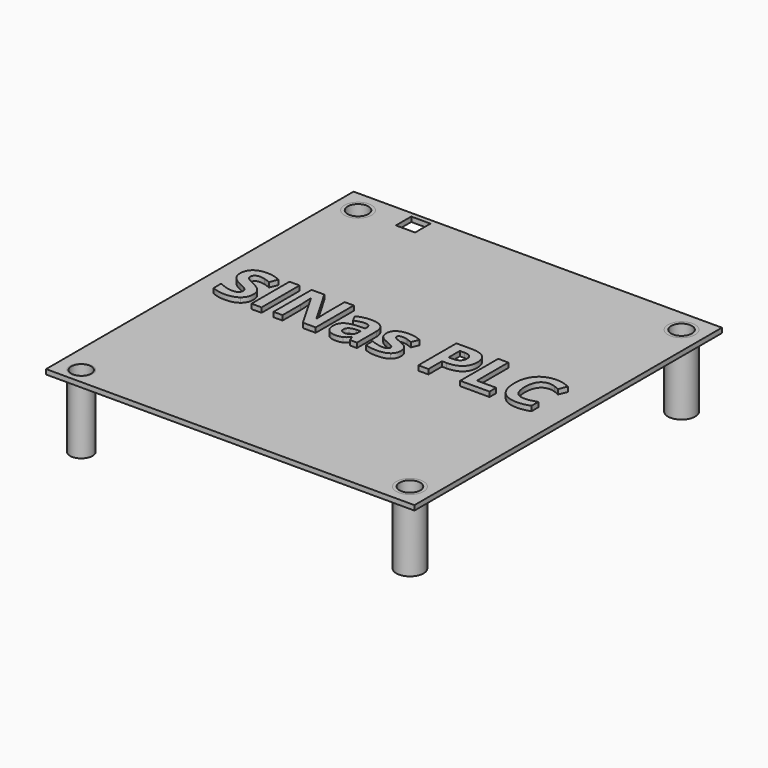
from build123d import *

# Parameters (mm, degrees)
F0_W      = 115
F0_H      = 120
F0_R      = 3.5
F0_R_2    = 4.25
F0_W_2    = 3.148877101
F0_H_2    = 14.8474917178
F0_W_3    = 6
F0_H_3    = 6
F1_DEPTH  = 1.5
F2_DEPTH  = 22.5
F3_R      = 3.25
F4_DEPTH  = 20.5
F5_R      = 3.25
F6_DEPTH  = 20.5
F7_R      = 3.1
F8_DEPTH  = 20.5
F9_R      = 3.25
F10_DEPTH = 20.5
F11_R     = 1.6
F12_DEPTH = 2.5
F13_R     = 1.6
F14_DEPTH = 2.5
F15_R     = 1.6
F16_DEPTH = 2.5
F17_R     = 1.6
F18_DEPTH = 2.5
F19_DEPTH = 1.5
F20_DEPTH = 1.5


with BuildPart() as f1:
    # F0 (on Top) → F1 (new body)
    with BuildSketch(Plane.XY):
        with Locations((5, 5)):
            Rectangle(F0_W, F0_H)
        with Locations((-45.5, -50)):
            Circle(F0_R, mode=Mode.SUBTRACT)
        with Locations((55.5, -48)):
            Circle(F0_R_2, mode=Mode.SUBTRACT)
        with BuildLine():
            add(Edge.make_bspline(
                [(-36.6390427626, 7.5755962992), (-35.8672591594, 6.576339634), (-35.8672591594, 5.1237616524)],
                knots=[0, 0, 0, 1, 1, 1], degree=2))
            add(Edge.make_bspline(
                [(-35.8672591594, 5.1237616524), (-35.8672591594, 3.1122498614), (-37.3149627183, 1.9537620528)],
                knots=[0, 0, 0, 1, 1, 1], degree=2))
            add(Edge.make_bspline(
                [(-37.3149627183, 1.9537620528), (-38.7626662771, 0.7952742442), (-41.3396111079, 0.7952742442)],
                knots=[0, 0, 0, 1, 1, 1], degree=2))
            add(Edge.make_bspline(
                [(-41.3396111079, 0.7952742442), (-43.7183294133, 0.7952742442), (-45.5446131396, 1.6921680315)],
                knots=[0, 0, 0, 1, 1, 1], degree=2))
            Line((-45.5446131396, 1.6921680315), (-45.5446131396, 4.6168216857))
            add(Edge.make_bspline(
                [(-45.5446131396, 4.6168216857), (-44.0432909305, 3.9441513452), (-43.0017892681, 3.6711836708)],
                knots=[0, 0, 0, 1, 1, 1], degree=2))
            add(Edge.make_bspline(
                [(-43.0017892681, 3.6711836708), (-41.9602876057, 3.3982159964), (-41.0958899701, 3.3982159964)],
                knots=[0, 0, 0, 1, 1, 1], degree=2))
            add(Edge.make_bspline(
                [(-41.0958899701, 3.3982159964), (-40.0625123456, 3.3982159964), (-39.5084529589, 3.7930442398)],
                knots=[0, 0, 0, 1, 1, 1], degree=2))
            add(Edge.make_bspline(
                [(-39.5084529589, 3.7930442398), (-38.9543935722, 4.1878724831), (-38.9543935722, 4.9710297394)],
                knots=[0, 0, 0, 1, 1, 1], degree=2))
            add(Edge.make_bspline(
                [(-38.9543935722, 4.9710297394), (-38.9543935722, 5.4064781723), (-39.19811471, 5.7476877653)],
                knots=[0, 0, 0, 1, 1, 1], degree=2))
            add(Edge.make_bspline(
                [(-39.19811471, 5.7476877653), (-39.4418358479, 6.0888973583), (-39.9146548553, 6.4024852223)],
                knots=[0, 0, 0, 1, 1, 1], degree=2))
            add(Edge.make_bspline(
                [(-39.9146548553, 6.4024852223), (-40.3874738627, 6.7160730864), (-41.8400518443, 7.4082411178)],
                knots=[0, 0, 0, 1, 1, 1], degree=2))
            add(Edge.make_bspline(
                [(-41.8400518443, 7.4082411178), (-43.1983909859, 8.0484153066), (-43.8791853643, 8.6365956526)],
                knots=[0, 0, 0, 1, 1, 1], degree=2))
            add(Edge.make_bspline(
                [(-43.8791853643, 8.6365956526), (-44.5599797427, 9.2247759986), (-44.9661816391, 10.0079332549)],
                knots=[0, 0, 0, 1, 1, 1], degree=2))
            add(Edge.make_bspline(
                [(-44.9661816391, 10.0079332549), (-45.3723835356, 10.7910905112), (-45.3723835356, 11.8342169812)],
                knots=[0, 0, 0, 1, 1, 1], degree=2))
            add(Edge.make_bspline(
                [(-45.3723835356, 11.8342169812), (-45.3723835356, 13.8067333902), (-44.0367917001, 14.932725047)],
                knots=[0, 0, 0, 1, 1, 1], degree=2))
            add(Edge.make_bspline(
                [(-44.0367917001, 14.932725047), (-42.7011998647, 16.0587167039), (-40.3452288655, 16.0587167039)],
                knots=[0, 0, 0, 1, 1, 1], degree=2))
            add(Edge.make_bspline(
                [(-40.3452288655, 16.0587167039), (-39.1883658645, 16.0587167039), (-38.1371153566, 15.7857490295)],
                knots=[0, 0, 0, 1, 1, 1], degree=2))
            add(Edge.make_bspline(
                [(-38.1371153566, 15.7857490295), (-37.0858648487, 15.5127813551), (-35.9387506932, 15.0155902339)],
                knots=[0, 0, 0, 1, 1, 1], degree=2))
            Line((-35.9387506932, 15.0155902339), (-36.9526306267, 12.5653803947))
            add(Edge.make_bspline(
                [(-36.9526306267, 12.5653803947), (-38.1419897794, 13.0528226704), (-38.9186478053, 13.2461747731)],
                knots=[0, 0, 0, 1, 1, 1], degree=2))
            add(Edge.make_bspline(
                [(-38.9186478053, 13.2461747731), (-39.6953058313, 13.4395268758), (-40.4459669358, 13.4395268758)],
                knots=[0, 0, 0, 1, 1, 1], degree=2))
            add(Edge.make_bspline(
                [(-40.4459669358, 13.4395268758), (-41.3396111079, 13.4395268758), (-41.8173045381, 13.0235761339)],
                knots=[0, 0, 0, 1, 1, 1], degree=2))
            add(Edge.make_bspline(
                [(-41.8173045381, 13.0235761339), (-42.2949979683, 12.607625392), (-42.2949979683, 11.9382046667)],
                knots=[0, 0, 0, 1, 1, 1], degree=2))
            add(Edge.make_bspline(
                [(-42.2949979683, 11.9382046667), (-42.2949979683, 11.5222539247), (-42.1016458656, 11.2119156759)],
                knots=[0, 0, 0, 1, 1, 1], degree=2))
            add(Edge.make_bspline(
                [(-42.1016458656, 11.2119156759), (-41.9082937629, 10.901577427), (-41.4874685982, 10.6123616768)],
                knots=[0, 0, 0, 1, 1, 1], degree=2))
            add(Edge.make_bspline(
                [(-41.4874685982, 10.6123616768), (-41.0666434335, 10.3231459265), (-39.4938296906, 9.5724848219)],
                knots=[0, 0, 0, 1, 1, 1], degree=2))
            add(Edge.make_bspline(
                [(-39.4938296906, 9.5724848219), (-37.4108263658, 8.5748529644), (-36.6390427626, 7.5755962992)],
                knots=[0, 0, 0, 1, 1, 1], degree=2))
        make_face(mode=Mode.SUBTRACT)
        with Locations((-31.6021392471, 8.4237458589)):
            Rectangle(F0_W_2, F0_H_2, mode=Mode.SUBTRACT)
        with BuildLine():
            Line((-13.1199529602, 15.8474917178), (-13.1199529602, 1))
            Line((-13.1199529602, 1), (-17.1202292361, 1))
            Line((-17.1202292361, 1), (-23.5804641967, 12.2306700321))
            Line((-23.5804641967, 12.2306700321), (-23.6714534215, 12.2306700321))
            add(Edge.make_bspline(
                [(-23.6714534215, 12.2306700321), (-23.4764765112, 9.2572721503), (-23.4764765112, 7.9866726183)],
                knots=[0, 0, 0, 1, 1, 1], degree=2))
            Line((-23.4764765112, 7.9866726183), (-23.4764765112, 1))
            Line((-23.4764765112, 1), (-26.2906432495, 1))
            Line((-26.2906432495, 1), (-26.2906432495, 15.8474917178))
            Line((-26.2906432495, 15.8474917178), (-22.3196135102, 15.8474917178))
            Line((-22.3196135102, 15.8474917178), (-15.8723770103, 4.7273086015))
            Line((-15.8723770103, 4.7273086015), (-15.8008854765, 4.7273086015))
            add(Edge.make_bspline(
                [(-15.8008854765, 4.7273086015), (-15.9536173896, 7.6227157192), (-15.9536173896, 8.8185741022)],
                knots=[0, 0, 0, 1, 1, 1], degree=2))
            Line((-15.9536173896, 8.8185741022), (-15.9536173896, 15.8474917178))
            Line((-15.9536173896, 15.8474917178), (-13.1199529602, 15.8474917178))
        make_face(mode=Mode.SUBTRACT)
        with BuildLine():
            Line((-0.2547264969, 1), (-2.4157205858, 1))
            Line((-2.4157205858, 1), (-3.0168993925, 2.5435672064))
            Line((-3.0168993925, 2.5435672064), (-3.0981397718, 2.5435672064))
            add(Edge.make_bspline(
                [(-3.0981397718, 2.5435672064), (-3.8780474129, 1.5589338095), (-4.7066992816, 1.1771040268)],
                knots=[0, 0, 0, 1, 1, 1], degree=2))
            add(Edge.make_bspline(
                [(-4.7066992816, 1.1771040268), (-5.5353511503, 0.7952742442), (-6.8644437554, 0.7952742442)],
                knots=[0, 0, 0, 1, 1, 1], degree=2))
            add(Edge.make_bspline(
                [(-6.8644437554, 0.7952742442), (-8.4990001866, 0.7952742442), (-9.4381389711, 1.7311634135)],
                knots=[0, 0, 0, 1, 1, 1], degree=2))
            add(Edge.make_bspline(
                [(-9.4381389711, 1.7311634135), (-10.3772777556, 2.6670525829), (-10.3772777556, 4.3925982389)],
                knots=[0, 0, 0, 1, 1, 1], degree=2))
            add(Edge.make_bspline(
                [(-10.3772777556, 4.3925982389), (-10.3772777556, 6.1993842741), (-9.1131774539, 7.0572826793)],
                knots=[0, 0, 0, 1, 1, 1], degree=2))
            add(Edge.make_bspline(
                [(-9.1131774539, 7.0572826793), (-7.8490771523, 7.9151810846), (-5.301378858, 8.0061703094)],
                knots=[0, 0, 0, 1, 1, 1], degree=2))
            Line((-5.301378858, 8.0061703094), (-3.328862449, 8.0679129976))
            Line((-3.328862449, 8.0679129976), (-3.328862449, 8.5651041188))
            add(Edge.make_bspline(
                [(-3.328862449, 8.5651041188), (-3.328862449, 10.2906497748), (-5.0966531022, 10.2906497748)],
                knots=[0, 0, 0, 1, 1, 1], degree=2))
            add(Edge.make_bspline(
                [(-5.0966531022, 10.2906497748), (-6.458241859, 10.2906497748), (-8.2975240459, 9.4684971365)],
                knots=[0, 0, 0, 1, 1, 1], degree=2))
            Line((-8.2975240459, 9.4684971365), (-9.3211528249, 11.5612493068))
            add(Edge.make_bspline(
                [(-9.3211528249, 11.5612493068), (-7.3616348766, 12.5881277009), (-4.9764173408, 12.5881277009)],
                knots=[0, 0, 0, 1, 1, 1], degree=2))
            add(Edge.make_bspline(
                [(-4.9764173408, 12.5881277009), (-2.6919378754, 12.5881277009), (-1.4733321862, 11.5921206509)],
                knots=[0, 0, 0, 1, 1, 1], degree=2))
            add(Edge.make_bspline(
                [(-1.4733321862, 11.5921206509), (-0.2547264969, 10.5961136009), (-0.2547264969, 8.5651041188)],
                knots=[0, 0, 0, 1, 1, 1], degree=2))
            Line((-0.2547264969, 8.5651041188), (-0.2547264969, 1))
        make_face(mode=Mode.SUBTRACT)
        with Locations((-45.5, 58)):
            Circle(F0_R_2, mode=Mode.SUBTRACT)
        with Locations((-30.291278407, 60.5)):
            Rectangle(F0_W_3, F0_H_3, mode=Mode.SUBTRACT)
        with BuildLine():
            add(Edge.make_bspline(
                [(10.5632424084, 5.8240537218), (10.858957389, 5.2147508772), (10.858957389, 4.3731005478)],
                knots=[0, 0, 0, 1, 1, 1], degree=2))
            add(Edge.make_bspline(
                [(10.858957389, 4.3731005478), (10.858957389, 2.6248075857), (9.6452261225, 1.7100409149)],
                knots=[0, 0, 0, 1, 1, 1], degree=2))
            add(Edge.make_bspline(
                [(9.6452261225, 1.7100409149), (8.431494856, 0.7952742442), (6.0137811686, 0.7952742442)],
                knots=[0, 0, 0, 1, 1, 1], degree=2))
            add(Edge.make_bspline(
                [(6.0137811686, 0.7952742442), (4.7756777883, 0.7952742442), (3.9015313072, 0.9642542331)],
                knots=[0, 0, 0, 1, 1, 1], degree=2))
            add(Edge.make_bspline(
                [(3.9015313072, 0.9642542331), (3.0273848261, 1.133234222), (2.266974876, 1.4581957392)],
                knots=[0, 0, 0, 1, 1, 1], degree=2))
            Line((2.266974876, 1.4581957392), (2.266974876, 4.015642879))
            add(Edge.make_bspline(
                [(2.266974876, 4.015642879), (3.1281228964, 3.6094409826), (4.2102447485, 3.3348485006)],
                knots=[0, 0, 0, 1, 1, 1], degree=2))
            add(Edge.make_bspline(
                [(4.2102447485, 3.3348485006), (5.2923666005, 3.0602560186), (6.1145192389, 3.0602560186)],
                knots=[0, 0, 0, 1, 1, 1], degree=2))
            add(Edge.make_bspline(
                [(6.1145192389, 3.0602560186), (7.8010695128, 3.0602560186), (7.8010695128, 4.03514057)],
                knots=[0, 0, 0, 1, 1, 1], degree=2))
            add(Edge.make_bspline(
                [(7.8010695128, 4.03514057), (7.8010695128, 4.4023470844), (7.576846066, 4.631444954)],
                knots=[0, 0, 0, 1, 1, 1], degree=2))
            add(Edge.make_bspline(
                [(7.576846066, 4.631444954), (7.3526226192, 4.8605428235), (6.8050624628, 5.1497585738)],
                knots=[0, 0, 0, 1, 1, 1], degree=2))
            add(Edge.make_bspline(
                [(6.8050624628, 5.1497585738), (6.2575023064, 5.438974324), (5.3443604433, 5.8224289142)],
                knots=[0, 0, 0, 1, 1, 1], degree=2))
            add(Edge.make_bspline(
                [(5.3443604433, 5.8224289142), (4.0347655292, 6.3716138782), (3.4189634543, 6.8395584629)],
                knots=[0, 0, 0, 1, 1, 1], degree=2))
            add(Edge.make_bspline(
                [(3.4189634543, 6.8395584629), (2.8031613793, 7.3075030475), (2.5253192822, 7.9119314694)],
                knots=[0, 0, 0, 1, 1, 1], degree=2))
            add(Edge.make_bspline(
                [(2.5253192822, 7.9119314694), (2.247477185, 8.5163598913), (2.247477185, 9.3970056027)],
                knots=[0, 0, 0, 1, 1, 1], degree=2))
            add(Edge.make_bspline(
                [(2.247477185, 9.3970056027), (2.247477185, 10.9113262725), (3.4189634543, 11.7383533336)],
                knots=[0, 0, 0, 1, 1, 1], degree=2))
            add(Edge.make_bspline(
                [(3.4189634543, 11.7383533336), (4.5904497235, 12.5653803947), (6.7449445821, 12.5653803947)],
                knots=[0, 0, 0, 1, 1, 1], degree=2))
            add(Edge.make_bspline(
                [(6.7449445821, 12.5653803947), (8.7954517552, 12.5653803947), (10.7354720125, 11.6717362226)],
                knots=[0, 0, 0, 1, 1, 1], degree=2))
            Line((10.7354720125, 11.6717362226), (9.8028324583, 9.4392505999))
            add(Edge.make_bspline(
                [(9.8028324583, 9.4392505999), (8.9481836683, 9.8032074991), (8.2072714092, 10.0371797914)],
                knots=[0, 0, 0, 1, 1, 1], degree=2))
            add(Edge.make_bspline(
                [(8.2072714092, 10.0371797914), (7.4663591502, 10.2711520838), (6.6929507394, 10.2711520838)],
                knots=[0, 0, 0, 1, 1, 1], degree=2))
            add(Edge.make_bspline(
                [(6.6929507394, 10.2711520838), (5.3216131371, 10.2711520838), (5.3216131371, 9.5302398247)],
                knots=[0, 0, 0, 1, 1, 1], degree=2))
            add(Edge.make_bspline(
                [(5.3216131371, 9.5302398247), (5.3216131371, 9.1142890828), (5.7635608004, 8.8088252567)],
                knots=[0, 0, 0, 1, 1, 1], degree=2))
            add(Edge.make_bspline(
                [(5.7635608004, 8.8088252567), (6.2055084637, 8.5033614306), (7.7003314425, 7.9054322391)],
                knots=[0, 0, 0, 1, 1, 1], degree=2))
            add(Edge.make_bspline(
                [(7.7003314425, 7.9054322391), (9.0294240476, 7.3659961206), (9.6484757377, 6.8996763435)],
                knots=[0, 0, 0, 1, 1, 1], degree=2))
            add(Edge.make_bspline(
                [(9.6484757377, 6.8996763435), (10.2675274278, 6.4333565665), (10.5632424084, 5.8240537218)],
                knots=[0, 0, 0, 1, 1, 1], degree=2))
        make_face(mode=Mode.SUBTRACT)
        with BuildLine():
            add(Edge.make_bspline(
                [(27.7715795482, 14.6841294864), (29.1770381098, 13.5207672551), (29.1770381098, 11.2167900986)],
                knots=[0, 0, 0, 1, 1, 1], degree=2))
            add(Edge.make_bspline(
                [(29.1770381098, 11.2167900986), (29.1770381098, 8.8185741022), (27.6789655158, 7.5495993778)],
                knots=[0, 0, 0, 1, 1, 1], degree=2))
            add(Edge.make_bspline(
                [(27.6789655158, 7.5495993778), (26.1808929218, 6.2806246534), (23.4187200262, 6.2806246534)],
                knots=[0, 0, 0, 1, 1, 1], degree=2))
            Line((23.4187200262, 6.2806246534), (22.0701297301, 6.2806246534))
            Line((22.0701297301, 6.2806246534), (22.0701297301, 1))
            Line((22.0701297301, 1), (18.9212526291, 1))
            Line((18.9212526291, 1), (18.9212526291, 15.8474917178))
            Line((18.9212526291, 15.8474917178), (23.662441164, 15.8474917178))
            add(Edge.make_bspline(
                [(23.662441164, 15.8474917178), (26.3661209866, 15.8474917178), (27.7715795482, 14.6841294864)],
                knots=[0, 0, 0, 1, 1, 1], degree=2))
        make_face(mode=Mode.SUBTRACT)
        Polygon((41.1518700161, 1), (31.9814560026, 1), (31.9814560026, 15.8474917178), (35.1303331036, 15.8474917178), (35.1303331036, 3.5996921371), (41.1518700161, 3.5996921371), align=None, mode=Mode.SUBTRACT)
        with BuildLine():
            add(Edge.make_bspline(
                [(51.6936216319, 13.1454367028), (50.8519713025, 13.4395268758), (50.0395675097, 13.4395268758)],
                knots=[0, 0, 0, 1, 1, 1], degree=2))
            add(Edge.make_bspline(
                [(50.0395675097, 13.4395268758), (48.2620280109, 13.4395268758), (47.2871434595, 12.1039350404)],
                knots=[0, 0, 0, 1, 1, 1], degree=2))
            add(Edge.make_bspline(
                [(47.2871434595, 12.1039350404), (46.3122589081, 10.768343205), (46.3122589081, 8.3831256692)],
                knots=[0, 0, 0, 1, 1, 1], degree=2))
            add(Edge.make_bspline(
                [(46.3122589081, 8.3831256692), (46.3122589081, 3.4177136875), (50.0395675097, 3.4177136875)],
                knots=[0, 0, 0, 1, 1, 1], degree=2))
            add(Edge.make_bspline(
                [(50.0395675097, 3.4177136875), (51.6026324071, 3.4177136875), (53.8253691842, 4.1976213286)],
                knots=[0, 0, 0, 1, 1, 1], degree=2))
            Line((53.8253691842, 4.1976213286), (53.8253691842, 1.5589338095))
            add(Edge.make_bspline(
                [(53.8253691842, 1.5589338095), (51.999085458, 0.7952742442), (49.7438525291, 0.7952742442)],
                knots=[0, 0, 0, 1, 1, 1], degree=2))
            add(Edge.make_bspline(
                [(49.7438525291, 0.7952742442), (46.5039862033, 0.7952742442), (44.7881893928, 2.7612914229)],
                knots=[0, 0, 0, 1, 1, 1], degree=2))
            add(Edge.make_bspline(
                [(44.7881893928, 2.7612914229), (43.0723925823, 4.7273086015), (43.0723925823, 8.4026233603)],
                knots=[0, 0, 0, 1, 1, 1], degree=2))
            add(Edge.make_bspline(
                [(43.0723925823, 8.4026233603), (43.0723925823, 10.7195989774), (43.9156677193, 12.4613927093)],
                knots=[0, 0, 0, 1, 1, 1], degree=2))
            add(Edge.make_bspline(
                [(43.9156677193, 12.4613927093), (44.7589428563, 14.2031864411), (46.3382558295, 15.1309515725)],
                knots=[0, 0, 0, 1, 1, 1], degree=2))
            add(Edge.make_bspline(
                [(46.3382558295, 15.1309515725), (47.9175688028, 16.0587167039), (50.0395675097, 16.0587167039)],
                knots=[0, 0, 0, 1, 1, 1], degree=2))
            add(Edge.make_bspline(
                [(50.0395675097, 16.0587167039), (52.2005615986, 16.0587167039), (54.3843029937, 15.0155902339)],
                knots=[0, 0, 0, 1, 1, 1], degree=2))
            Line((54.3843029937, 15.0155902339), (53.3704230603, 12.4548934789))
            add(Edge.make_bspline(
                [(53.3704230603, 12.4548934789), (52.5352719612, 12.8513465298), (51.6936216319, 13.1454367028)],
                knots=[0, 0, 0, 1, 1, 1], degree=2))
        make_face(mode=Mode.SUBTRACT)
        with Locations((55.5, 58)):
            Circle(F0_R_2, mode=Mode.SUBTRACT)
    extrude(amount=-F1_DEPTH)


with BuildPart() as f2:
    # F0 (on Top) → F2 (new body)
    with BuildSketch(Plane.XY):
        with Locations((-45.5, 58)):
            Circle(F0_R_2)
    extrude(amount=-F2_DEPTH)

    # F5 (on face) → F6 (cut)
    with BuildSketch(Plane.XY):
        with Locations((-45.5, 58)):
            Circle(F5_R)
    extrude(amount=-F6_DEPTH, mode=Mode.SUBTRACT)

    # F13 (on face) → F14 (cut)
    with BuildSketch(Plane(origin=(0, 0, -22.5), x_dir=(1, 0, 0), z_dir=(0, 0, -1))):
        with Locations((-45.5, -58)):
            Circle(F13_R)
    extrude(amount=-F14_DEPTH, mode=Mode.SUBTRACT)


with BuildPart() as f2b:
    # F0 (on Top) → F2, piece 2 (new body)
    with BuildSketch(Plane.XY):
        with Locations((55.5, 58)):
            Circle(F0_R_2)
    extrude(amount=-F2_DEPTH)

    # F3 (on face) → F4 (cut)
    with BuildSketch(Plane.XY):
        with Locations((55.5, 58)):
            Circle(F3_R)
    extrude(amount=-F4_DEPTH, mode=Mode.SUBTRACT)

    # F15 (on face) → F16 (cut)
    with BuildSketch(Plane(origin=(0, 0, -22.5), x_dir=(1, 0, 0), z_dir=(0, 0, -1))):
        with Locations((55.5, -58)):
            Circle(F15_R)
    extrude(amount=-F16_DEPTH, mode=Mode.SUBTRACT)


with BuildPart() as f2c:
    # F0 (on Top) → F2, piece 3 (new body)
    with BuildSketch(Plane.XY):
        with Locations((-45.5, -50)):
            Circle(F0_R)
    extrude(amount=-F2_DEPTH)

    # F7 (on face) → F8 (cut)
    with BuildSketch(Plane.XY):
        with Locations((-45.5, -50)):
            Circle(F7_R)
    extrude(amount=-F8_DEPTH, mode=Mode.SUBTRACT)

    # F11 (on face) → F12 (cut)
    with BuildSketch(Plane(origin=(0, 0, -22.5), x_dir=(1, 0, 0), z_dir=(0, 0, -1))):
        with Locations((-45.5, 50)):
            Circle(F11_R)
    extrude(amount=-F12_DEPTH, mode=Mode.SUBTRACT)


with BuildPart() as f2d:
    # F0 (on Top) → F2, piece 4 (new body)
    with BuildSketch(Plane.XY):
        with Locations((55.5, -48)):
            Circle(F0_R_2)
    extrude(amount=-F2_DEPTH)

    # F9 (on face) → F10 (cut)
    with BuildSketch(Plane.XY):
        with Locations((55.5, -48)):
            Circle(F9_R)
    extrude(amount=-F10_DEPTH, mode=Mode.SUBTRACT)

    # F17 (on face) → F18 (cut)
    with BuildSketch(Plane(origin=(0, 0, -22.5), x_dir=(1, 0, 0), z_dir=(0, 0, -1))):
        with Locations((55.5, 48)):
            Circle(F17_R)
    extrude(amount=-F18_DEPTH, mode=Mode.SUBTRACT)


with BuildPart() as f19:
    # F0 (on Top) → F19 (new body)
    with BuildSketch(Plane.XY):
        with BuildLine():
            add(Edge.make_bspline(
                [(-35.8672591594, 5.1237616524), (-35.8672591594, 3.1122498614), (-37.3149627183, 1.9537620528)],
                knots=[0, 0, 0, 1, 1, 1], degree=2))
            add(Edge.make_bspline(
                [(-36.6390427626, 7.5755962992), (-35.8672591594, 6.576339634), (-35.8672591594, 5.1237616524)],
                knots=[0, 0, 0, 1, 1, 1], degree=2))
            add(Edge.make_bspline(
                [(-39.4938296906, 9.5724848219), (-37.4108263658, 8.5748529644), (-36.6390427626, 7.5755962992)],
                knots=[0, 0, 0, 1, 1, 1], degree=2))
            add(Edge.make_bspline(
                [(-41.4874685982, 10.6123616768), (-41.0666434335, 10.3231459265), (-39.4938296906, 9.5724848219)],
                knots=[0, 0, 0, 1, 1, 1], degree=2))
            add(Edge.make_bspline(
                [(-42.1016458656, 11.2119156759), (-41.9082937629, 10.901577427), (-41.4874685982, 10.6123616768)],
                knots=[0, 0, 0, 1, 1, 1], degree=2))
            add(Edge.make_bspline(
                [(-42.2949979683, 11.9382046667), (-42.2949979683, 11.5222539247), (-42.1016458656, 11.2119156759)],
                knots=[0, 0, 0, 1, 1, 1], degree=2))
            add(Edge.make_bspline(
                [(-41.8173045381, 13.0235761339), (-42.2949979683, 12.607625392), (-42.2949979683, 11.9382046667)],
                knots=[0, 0, 0, 1, 1, 1], degree=2))
            add(Edge.make_bspline(
                [(-40.4459669358, 13.4395268758), (-41.3396111079, 13.4395268758), (-41.8173045381, 13.0235761339)],
                knots=[0, 0, 0, 1, 1, 1], degree=2))
            add(Edge.make_bspline(
                [(-38.9186478053, 13.2461747731), (-39.6953058313, 13.4395268758), (-40.4459669358, 13.4395268758)],
                knots=[0, 0, 0, 1, 1, 1], degree=2))
            add(Edge.make_bspline(
                [(-36.9526306267, 12.5653803947), (-38.1419897794, 13.0528226704), (-38.9186478053, 13.2461747731)],
                knots=[0, 0, 0, 1, 1, 1], degree=2))
            Line((-36.9526306267, 12.5653803947), (-35.9387506932, 15.0155902339))
            add(Edge.make_bspline(
                [(-38.1371153566, 15.7857490295), (-37.0858648487, 15.5127813551), (-35.9387506932, 15.0155902339)],
                knots=[0, 0, 0, 1, 1, 1], degree=2))
            add(Edge.make_bspline(
                [(-40.3452288655, 16.0587167039), (-39.1883658645, 16.0587167039), (-38.1371153566, 15.7857490295)],
                knots=[0, 0, 0, 1, 1, 1], degree=2))
            add(Edge.make_bspline(
                [(-44.0367917001, 14.932725047), (-42.7011998647, 16.0587167039), (-40.3452288655, 16.0587167039)],
                knots=[0, 0, 0, 1, 1, 1], degree=2))
            add(Edge.make_bspline(
                [(-45.3723835356, 11.8342169812), (-45.3723835356, 13.8067333902), (-44.0367917001, 14.932725047)],
                knots=[0, 0, 0, 1, 1, 1], degree=2))
            add(Edge.make_bspline(
                [(-44.9661816391, 10.0079332549), (-45.3723835356, 10.7910905112), (-45.3723835356, 11.8342169812)],
                knots=[0, 0, 0, 1, 1, 1], degree=2))
            add(Edge.make_bspline(
                [(-43.8791853643, 8.6365956526), (-44.5599797427, 9.2247759986), (-44.9661816391, 10.0079332549)],
                knots=[0, 0, 0, 1, 1, 1], degree=2))
            add(Edge.make_bspline(
                [(-41.8400518443, 7.4082411178), (-43.1983909859, 8.0484153066), (-43.8791853643, 8.6365956526)],
                knots=[0, 0, 0, 1, 1, 1], degree=2))
            add(Edge.make_bspline(
                [(-39.9146548553, 6.4024852223), (-40.3874738627, 6.7160730864), (-41.8400518443, 7.4082411178)],
                knots=[0, 0, 0, 1, 1, 1], degree=2))
            add(Edge.make_bspline(
                [(-39.19811471, 5.7476877653), (-39.4418358479, 6.0888973583), (-39.9146548553, 6.4024852223)],
                knots=[0, 0, 0, 1, 1, 1], degree=2))
            add(Edge.make_bspline(
                [(-38.9543935722, 4.9710297394), (-38.9543935722, 5.4064781723), (-39.19811471, 5.7476877653)],
                knots=[0, 0, 0, 1, 1, 1], degree=2))
            add(Edge.make_bspline(
                [(-39.5084529589, 3.7930442398), (-38.9543935722, 4.1878724831), (-38.9543935722, 4.9710297394)],
                knots=[0, 0, 0, 1, 1, 1], degree=2))
            add(Edge.make_bspline(
                [(-41.0958899701, 3.3982159964), (-40.0625123456, 3.3982159964), (-39.5084529589, 3.7930442398)],
                knots=[0, 0, 0, 1, 1, 1], degree=2))
            add(Edge.make_bspline(
                [(-43.0017892681, 3.6711836708), (-41.9602876057, 3.3982159964), (-41.0958899701, 3.3982159964)],
                knots=[0, 0, 0, 1, 1, 1], degree=2))
            add(Edge.make_bspline(
                [(-45.5446131396, 4.6168216857), (-44.0432909305, 3.9441513452), (-43.0017892681, 3.6711836708)],
                knots=[0, 0, 0, 1, 1, 1], degree=2))
            Line((-45.5446131396, 4.6168216857), (-45.5446131396, 1.6921680315))
            add(Edge.make_bspline(
                [(-41.3396111079, 0.7952742442), (-43.7183294133, 0.7952742442), (-45.5446131396, 1.6921680315)],
                knots=[0, 0, 0, 1, 1, 1], degree=2))
            add(Edge.make_bspline(
                [(-37.3149627183, 1.9537620528), (-38.7626662771, 0.7952742442), (-41.3396111079, 0.7952742442)],
                knots=[0, 0, 0, 1, 1, 1], degree=2))
        make_face()
    extrude(amount=F19_DEPTH)


with BuildPart() as f20:
    # F0 (on Top) → F20 (new body)
    with BuildSketch(Plane.XY):
        with Locations((-31.6021392471, 8.4237458589)):
            Rectangle(F0_W_2, F0_H_2)
        with BuildLine():
            Line((-17.1202292361, 1), (-13.1199529602, 1))
            Line((-13.1199529602, 1), (-13.1199529602, 15.8474917178))
            Line((-13.1199529602, 15.8474917178), (-15.9536173896, 15.8474917178))
            Line((-15.9536173896, 15.8474917178), (-15.9536173896, 8.8185741022))
            add(Edge.make_bspline(
                [(-15.8008854765, 4.7273086015), (-15.9536173896, 7.6227157192), (-15.9536173896, 8.8185741022)],
                knots=[0, 0, 0, 1, 1, 1], degree=2))
            Line((-15.8008854765, 4.7273086015), (-15.8723770103, 4.7273086015))
            Line((-15.8723770103, 4.7273086015), (-22.3196135102, 15.8474917178))
            Line((-22.3196135102, 15.8474917178), (-26.2906432495, 15.8474917178))
            Line((-26.2906432495, 15.8474917178), (-26.2906432495, 1))
            Line((-26.2906432495, 1), (-23.4764765112, 1))
            Line((-23.4764765112, 1), (-23.4764765112, 7.9866726183))
            add(Edge.make_bspline(
                [(-23.6714534215, 12.2306700321), (-23.4764765112, 9.2572721503), (-23.4764765112, 7.9866726183)],
                knots=[0, 0, 0, 1, 1, 1], degree=2))
            Line((-23.6714534215, 12.2306700321), (-23.5804641967, 12.2306700321))
            Line((-23.5804641967, 12.2306700321), (-17.1202292361, 1))
        make_face()
        with BuildLine():
            Line((-3.0168993925, 2.5435672064), (-2.4157205858, 1))
            Line((-2.4157205858, 1), (-0.2547264969, 1))
            Line((-0.2547264969, 1), (-0.2547264969, 8.5651041188))
            add(Edge.make_bspline(
                [(-1.4733321862, 11.5921206509), (-0.2547264969, 10.5961136009), (-0.2547264969, 8.5651041188)],
                knots=[0, 0, 0, 1, 1, 1], degree=2))
            add(Edge.make_bspline(
                [(-4.9764173408, 12.5881277009), (-2.6919378754, 12.5881277009), (-1.4733321862, 11.5921206509)],
                knots=[0, 0, 0, 1, 1, 1], degree=2))
            add(Edge.make_bspline(
                [(-9.3211528249, 11.5612493068), (-7.3616348766, 12.5881277009), (-4.9764173408, 12.5881277009)],
                knots=[0, 0, 0, 1, 1, 1], degree=2))
            Line((-9.3211528249, 11.5612493068), (-8.2975240459, 9.4684971365))
            add(Edge.make_bspline(
                [(-5.0966531022, 10.2906497748), (-6.458241859, 10.2906497748), (-8.2975240459, 9.4684971365)],
                knots=[0, 0, 0, 1, 1, 1], degree=2))
            add(Edge.make_bspline(
                [(-3.328862449, 8.5651041188), (-3.328862449, 10.2906497748), (-5.0966531022, 10.2906497748)],
                knots=[0, 0, 0, 1, 1, 1], degree=2))
            Line((-3.328862449, 8.5651041188), (-3.328862449, 8.0679129976))
            Line((-3.328862449, 8.0679129976), (-5.301378858, 8.0061703094))
            add(Edge.make_bspline(
                [(-9.1131774539, 7.0572826793), (-7.8490771523, 7.9151810846), (-5.301378858, 8.0061703094)],
                knots=[0, 0, 0, 1, 1, 1], degree=2))
            add(Edge.make_bspline(
                [(-10.3772777556, 4.3925982389), (-10.3772777556, 6.1993842741), (-9.1131774539, 7.0572826793)],
                knots=[0, 0, 0, 1, 1, 1], degree=2))
            add(Edge.make_bspline(
                [(-9.4381389711, 1.7311634135), (-10.3772777556, 2.6670525829), (-10.3772777556, 4.3925982389)],
                knots=[0, 0, 0, 1, 1, 1], degree=2))
            add(Edge.make_bspline(
                [(-6.8644437554, 0.7952742442), (-8.4990001866, 0.7952742442), (-9.4381389711, 1.7311634135)],
                knots=[0, 0, 0, 1, 1, 1], degree=2))
            add(Edge.make_bspline(
                [(-4.7066992816, 1.1771040268), (-5.5353511503, 0.7952742442), (-6.8644437554, 0.7952742442)],
                knots=[0, 0, 0, 1, 1, 1], degree=2))
            add(Edge.make_bspline(
                [(-3.0981397718, 2.5435672064), (-3.8780474129, 1.5589338095), (-4.7066992816, 1.1771040268)],
                knots=[0, 0, 0, 1, 1, 1], degree=2))
            Line((-3.0981397718, 2.5435672064), (-3.0168993925, 2.5435672064))
        make_face()
        with BuildLine():
            Line((-4.5279704472, 6.2188819651), (-3.328862449, 6.2611269624))
            Line((-3.328862449, 6.2611269624), (-3.328862449, 5.325237793))
            add(Edge.make_bspline(
                [(-3.9739110605, 3.6809325163), (-3.328862449, 4.3016090141), (-3.328862449, 5.325237793)],
                knots=[0, 0, 0, 1, 1, 1], degree=2))
            add(Edge.make_bspline(
                [(-5.6978319089, 3.0602560186), (-4.618959672, 3.0602560186), (-3.9739110605, 3.6809325163)],
                knots=[0, 0, 0, 1, 1, 1], degree=2))
            add(Edge.make_bspline(
                [(-7.199154118, 4.3731005478), (-7.199154118, 3.0602560186), (-5.6978319089, 3.0602560186)],
                knots=[0, 0, 0, 1, 1, 1], degree=2))
            add(Edge.make_bspline(
                [(-6.5394822382, 5.733064497), (-7.199154118, 5.286242411), (-7.199154118, 4.3731005478)],
                knots=[0, 0, 0, 1, 1, 1], degree=2))
            add(Edge.make_bspline(
                [(-4.5279704472, 6.2188819651), (-5.8798103585, 6.1798865831), (-6.5394822382, 5.733064497)],
                knots=[0, 0, 0, 1, 1, 1], degree=2))
        make_face(mode=Mode.SUBTRACT)
        with BuildLine():
            add(Edge.make_bspline(
                [(10.858957389, 4.3731005478), (10.858957389, 2.6248075857), (9.6452261225, 1.7100409149)],
                knots=[0, 0, 0, 1, 1, 1], degree=2))
            add(Edge.make_bspline(
                [(10.5632424084, 5.8240537218), (10.858957389, 5.2147508772), (10.858957389, 4.3731005478)],
                knots=[0, 0, 0, 1, 1, 1], degree=2))
            add(Edge.make_bspline(
                [(9.6484757377, 6.8996763435), (10.2675274278, 6.4333565665), (10.5632424084, 5.8240537218)],
                knots=[0, 0, 0, 1, 1, 1], degree=2))
            add(Edge.make_bspline(
                [(7.7003314425, 7.9054322391), (9.0294240476, 7.3659961206), (9.6484757377, 6.8996763435)],
                knots=[0, 0, 0, 1, 1, 1], degree=2))
            add(Edge.make_bspline(
                [(5.7635608004, 8.8088252567), (6.2055084637, 8.5033614306), (7.7003314425, 7.9054322391)],
                knots=[0, 0, 0, 1, 1, 1], degree=2))
            add(Edge.make_bspline(
                [(5.3216131371, 9.5302398247), (5.3216131371, 9.1142890828), (5.7635608004, 8.8088252567)],
                knots=[0, 0, 0, 1, 1, 1], degree=2))
            add(Edge.make_bspline(
                [(6.6929507394, 10.2711520838), (5.3216131371, 10.2711520838), (5.3216131371, 9.5302398247)],
                knots=[0, 0, 0, 1, 1, 1], degree=2))
            add(Edge.make_bspline(
                [(8.2072714092, 10.0371797914), (7.4663591502, 10.2711520838), (6.6929507394, 10.2711520838)],
                knots=[0, 0, 0, 1, 1, 1], degree=2))
            add(Edge.make_bspline(
                [(9.8028324583, 9.4392505999), (8.9481836683, 9.8032074991), (8.2072714092, 10.0371797914)],
                knots=[0, 0, 0, 1, 1, 1], degree=2))
            Line((9.8028324583, 9.4392505999), (10.7354720125, 11.6717362226))
            add(Edge.make_bspline(
                [(6.7449445821, 12.5653803947), (8.7954517552, 12.5653803947), (10.7354720125, 11.6717362226)],
                knots=[0, 0, 0, 1, 1, 1], degree=2))
            add(Edge.make_bspline(
                [(3.4189634543, 11.7383533336), (4.5904497235, 12.5653803947), (6.7449445821, 12.5653803947)],
                knots=[0, 0, 0, 1, 1, 1], degree=2))
            add(Edge.make_bspline(
                [(2.247477185, 9.3970056027), (2.247477185, 10.9113262725), (3.4189634543, 11.7383533336)],
                knots=[0, 0, 0, 1, 1, 1], degree=2))
            add(Edge.make_bspline(
                [(2.5253192822, 7.9119314694), (2.247477185, 8.5163598913), (2.247477185, 9.3970056027)],
                knots=[0, 0, 0, 1, 1, 1], degree=2))
            add(Edge.make_bspline(
                [(3.4189634543, 6.8395584629), (2.8031613793, 7.3075030475), (2.5253192822, 7.9119314694)],
                knots=[0, 0, 0, 1, 1, 1], degree=2))
            add(Edge.make_bspline(
                [(5.3443604433, 5.8224289142), (4.0347655292, 6.3716138782), (3.4189634543, 6.8395584629)],
                knots=[0, 0, 0, 1, 1, 1], degree=2))
            add(Edge.make_bspline(
                [(6.8050624628, 5.1497585738), (6.2575023064, 5.438974324), (5.3443604433, 5.8224289142)],
                knots=[0, 0, 0, 1, 1, 1], degree=2))
            add(Edge.make_bspline(
                [(7.576846066, 4.631444954), (7.3526226192, 4.8605428235), (6.8050624628, 5.1497585738)],
                knots=[0, 0, 0, 1, 1, 1], degree=2))
            add(Edge.make_bspline(
                [(7.8010695128, 4.03514057), (7.8010695128, 4.4023470844), (7.576846066, 4.631444954)],
                knots=[0, 0, 0, 1, 1, 1], degree=2))
            add(Edge.make_bspline(
                [(6.1145192389, 3.0602560186), (7.8010695128, 3.0602560186), (7.8010695128, 4.03514057)],
                knots=[0, 0, 0, 1, 1, 1], degree=2))
            add(Edge.make_bspline(
                [(4.2102447485, 3.3348485006), (5.2923666005, 3.0602560186), (6.1145192389, 3.0602560186)],
                knots=[0, 0, 0, 1, 1, 1], degree=2))
            add(Edge.make_bspline(
                [(2.266974876, 4.015642879), (3.1281228964, 3.6094409826), (4.2102447485, 3.3348485006)],
                knots=[0, 0, 0, 1, 1, 1], degree=2))
            Line((2.266974876, 4.015642879), (2.266974876, 1.4581957392))
            add(Edge.make_bspline(
                [(3.9015313072, 0.9642542331), (3.0273848261, 1.133234222), (2.266974876, 1.4581957392)],
                knots=[0, 0, 0, 1, 1, 1], degree=2))
            add(Edge.make_bspline(
                [(6.0137811686, 0.7952742442), (4.7756777883, 0.7952742442), (3.9015313072, 0.9642542331)],
                knots=[0, 0, 0, 1, 1, 1], degree=2))
            add(Edge.make_bspline(
                [(9.6452261225, 1.7100409149), (8.431494856, 0.7952742442), (6.0137811686, 0.7952742442)],
                knots=[0, 0, 0, 1, 1, 1], degree=2))
        make_face()
        with BuildLine():
            add(Edge.make_bspline(
                [(29.1770381098, 11.2167900986), (29.1770381098, 8.8185741022), (27.6789655158, 7.5495993778)],
                knots=[0, 0, 0, 1, 1, 1], degree=2))
            add(Edge.make_bspline(
                [(27.7715795482, 14.6841294864), (29.1770381098, 13.5207672551), (29.1770381098, 11.2167900986)],
                knots=[0, 0, 0, 1, 1, 1], degree=2))
            add(Edge.make_bspline(
                [(23.662441164, 15.8474917178), (26.3661209866, 15.8474917178), (27.7715795482, 14.6841294864)],
                knots=[0, 0, 0, 1, 1, 1], degree=2))
            Line((23.662441164, 15.8474917178), (18.9212526291, 15.8474917178))
            Line((18.9212526291, 15.8474917178), (18.9212526291, 1))
            Line((18.9212526291, 1), (22.0701297301, 1))
            Line((22.0701297301, 1), (22.0701297301, 6.2806246534))
            Line((22.0701297301, 6.2806246534), (23.4187200262, 6.2806246534))
            add(Edge.make_bspline(
                [(27.6789655158, 7.5495993778), (26.1808929218, 6.2806246534), (23.4187200262, 6.2806246534)],
                knots=[0, 0, 0, 1, 1, 1], degree=2))
        make_face()
        with BuildLine():
            Line((23.1067569697, 8.8608190994), (22.0701297301, 8.8608190994))
            Line((22.0701297301, 8.8608190994), (22.0701297301, 13.2672972717))
            Line((22.0701297301, 13.2672972717), (23.4999604055, 13.2672972717))
            add(Edge.make_bspline(
                [(25.3944860503, 12.7392348064), (24.7900576285, 13.2672972717), (23.4999604055, 13.2672972717)],
                knots=[0, 0, 0, 1, 1, 1], degree=2))
            add(Edge.make_bspline(
                [(25.9989144722, 11.1030535676), (25.9989144722, 12.2111723411), (25.3944860503, 12.7392348064)],
                knots=[0, 0, 0, 1, 1, 1], degree=2))
            add(Edge.make_bspline(
                [(25.2774999042, 9.4343761772), (25.9989144722, 10.0079332549), (25.9989144722, 11.1030535676)],
                knots=[0, 0, 0, 1, 1, 1], degree=2))
            add(Edge.make_bspline(
                [(23.1067569697, 8.8608190994), (24.5560853361, 8.8608190994), (25.2774999042, 9.4343761772)],
                knots=[0, 0, 0, 1, 1, 1], degree=2))
        make_face(mode=Mode.SUBTRACT)
        Polygon((31.9814560026, 15.8474917178), (31.9814560026, 1), (41.1518700161, 1), (41.1518700161, 3.5996921371), (35.1303331036, 3.5996921371), (35.1303331036, 15.8474917178), align=None)
        with BuildLine():
            add(Edge.make_bspline(
                [(50.0395675097, 13.4395268758), (48.2620280109, 13.4395268758), (47.2871434595, 12.1039350404)],
                knots=[0, 0, 0, 1, 1, 1], degree=2))
            add(Edge.make_bspline(
                [(51.6936216319, 13.1454367028), (50.8519713025, 13.4395268758), (50.0395675097, 13.4395268758)],
                knots=[0, 0, 0, 1, 1, 1], degree=2))
            add(Edge.make_bspline(
                [(53.3704230603, 12.4548934789), (52.5352719612, 12.8513465298), (51.6936216319, 13.1454367028)],
                knots=[0, 0, 0, 1, 1, 1], degree=2))
            Line((53.3704230603, 12.4548934789), (54.3843029937, 15.0155902339))
            add(Edge.make_bspline(
                [(50.0395675097, 16.0587167039), (52.2005615986, 16.0587167039), (54.3843029937, 15.0155902339)],
                knots=[0, 0, 0, 1, 1, 1], degree=2))
            add(Edge.make_bspline(
                [(46.3382558295, 15.1309515725), (47.9175688028, 16.0587167039), (50.0395675097, 16.0587167039)],
                knots=[0, 0, 0, 1, 1, 1], degree=2))
            add(Edge.make_bspline(
                [(43.9156677193, 12.4613927093), (44.7589428563, 14.2031864411), (46.3382558295, 15.1309515725)],
                knots=[0, 0, 0, 1, 1, 1], degree=2))
            add(Edge.make_bspline(
                [(43.0723925823, 8.4026233603), (43.0723925823, 10.7195989774), (43.9156677193, 12.4613927093)],
                knots=[0, 0, 0, 1, 1, 1], degree=2))
            add(Edge.make_bspline(
                [(44.7881893928, 2.7612914229), (43.0723925823, 4.7273086015), (43.0723925823, 8.4026233603)],
                knots=[0, 0, 0, 1, 1, 1], degree=2))
            add(Edge.make_bspline(
                [(49.7438525291, 0.7952742442), (46.5039862033, 0.7952742442), (44.7881893928, 2.7612914229)],
                knots=[0, 0, 0, 1, 1, 1], degree=2))
            add(Edge.make_bspline(
                [(53.8253691842, 1.5589338095), (51.999085458, 0.7952742442), (49.7438525291, 0.7952742442)],
                knots=[0, 0, 0, 1, 1, 1], degree=2))
            Line((53.8253691842, 1.5589338095), (53.8253691842, 4.1976213286))
            add(Edge.make_bspline(
                [(50.0395675097, 3.4177136875), (51.6026324071, 3.4177136875), (53.8253691842, 4.1976213286)],
                knots=[0, 0, 0, 1, 1, 1], degree=2))
            add(Edge.make_bspline(
                [(46.3122589081, 8.3831256692), (46.3122589081, 3.4177136875), (50.0395675097, 3.4177136875)],
                knots=[0, 0, 0, 1, 1, 1], degree=2))
            add(Edge.make_bspline(
                [(47.2871434595, 12.1039350404), (46.3122589081, 10.768343205), (46.3122589081, 8.3831256692)],
                knots=[0, 0, 0, 1, 1, 1], degree=2))
        make_face()
    extrude(amount=F20_DEPTH)


solid = Compound([f1.part, f2.part, f2b.part, f2c.part, f2d.part, f19.part, f20.part])
